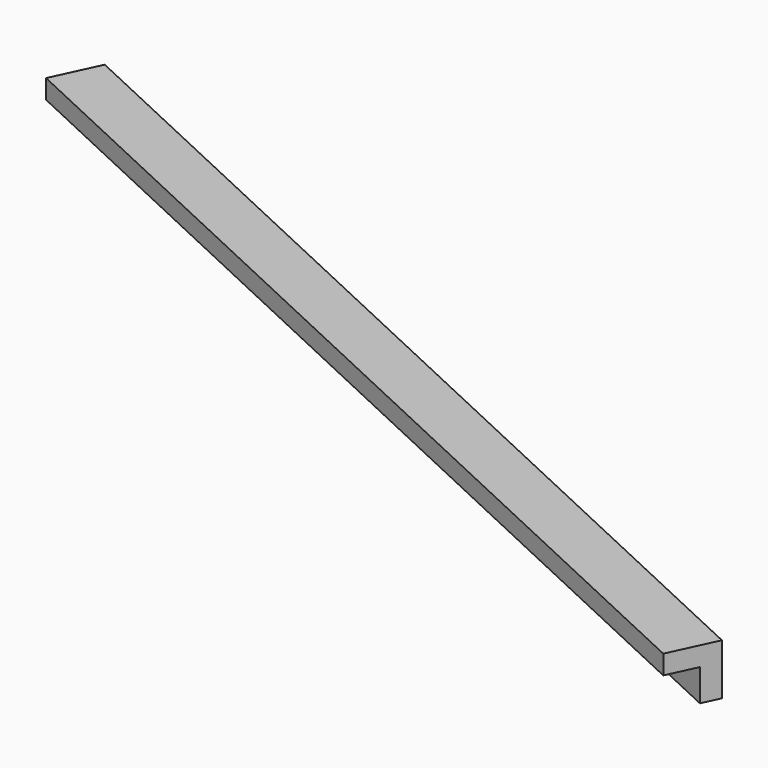
from build123d import *

# Parameters (mm, degrees)
BOX119_W               = 0.8
BOX119_H               = 17
BOX119_DEPTH           = 0.8
BOX120_W               = 0.8
BOX120_H               = 17
BOX120_DEPTH           = 0.8
CUT063_PLACEMENT_ANGLE = 65


with BuildPart() as cubo119:
    # Box119 → Box119 (new body)
    with BuildSketch(Plane.XY):
        with Locations((0.4, 8.5)):
            Rectangle(BOX119_W, BOX119_H)
    extrude(amount=BOX119_DEPTH)


with BuildPart() as obj1:
    # Box120 → Box120 (new body)
    with BuildSketch(Plane(origin=(0.3, 0, 0.3), x_dir=(1, 0, 0), z_dir=(0, 0, 1))):
        with Locations((0.4, 8.5)):
            Rectangle(BOX120_W, BOX120_H)
    extrude(amount=BOX120_DEPTH)

    # Cut063: cut Cubo119
    add(cubo119.part, mode=Mode.SUBTRACT)


with BuildPart() as obj1_1:
    # Cut063 placement: moved
    add(obj1.part.moved(Location((-195.4, 95.7, -1.45))).rotate(Axis((-195.4, 95.7, -1.45), (0, 0, 1)), CUT063_PLACEMENT_ANGLE))


solid = obj1_1.part
